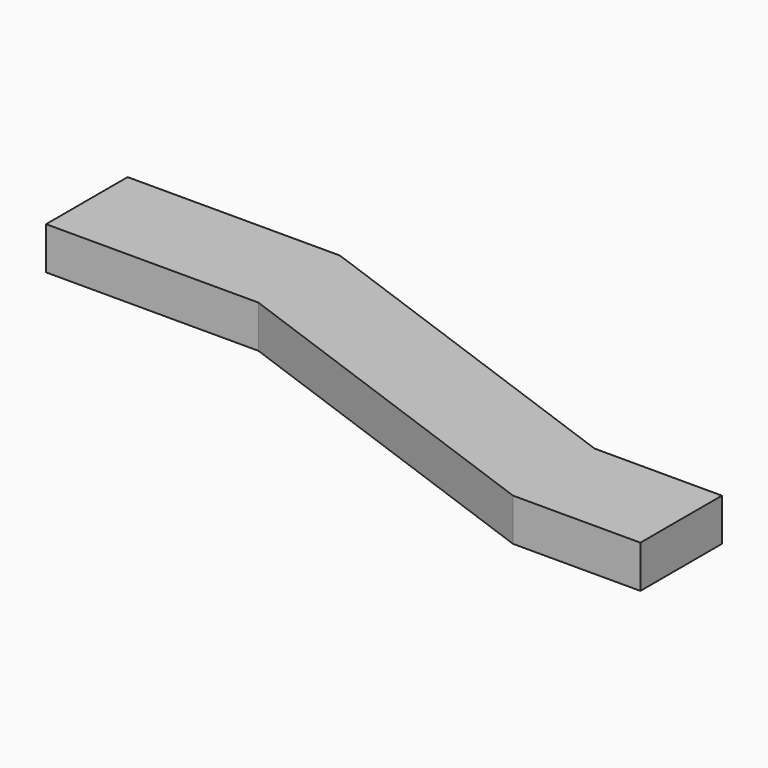
from build123d import *

# Parameters (mm, degrees)
F0_W     = 25
F0_H     = 12
F0_W_2   = 15
F1_DEPTH = 5


with BuildPart() as f1:
    # F0 (on Top) → F1 (new body)
    with BuildSketch(Plane.XY):
        with Locations((12.5, 6)):
            Rectangle(F0_W, F0_H)
        Polygon((67.286168, -3.390906), (25, 12), (25, 0), (67.286168, -15.390906), align=None)
        with Locations((74.786168, -9.390906)):
            Rectangle(F0_W_2, F0_H)
    extrude(amount=F1_DEPTH)


solid = f1.part
